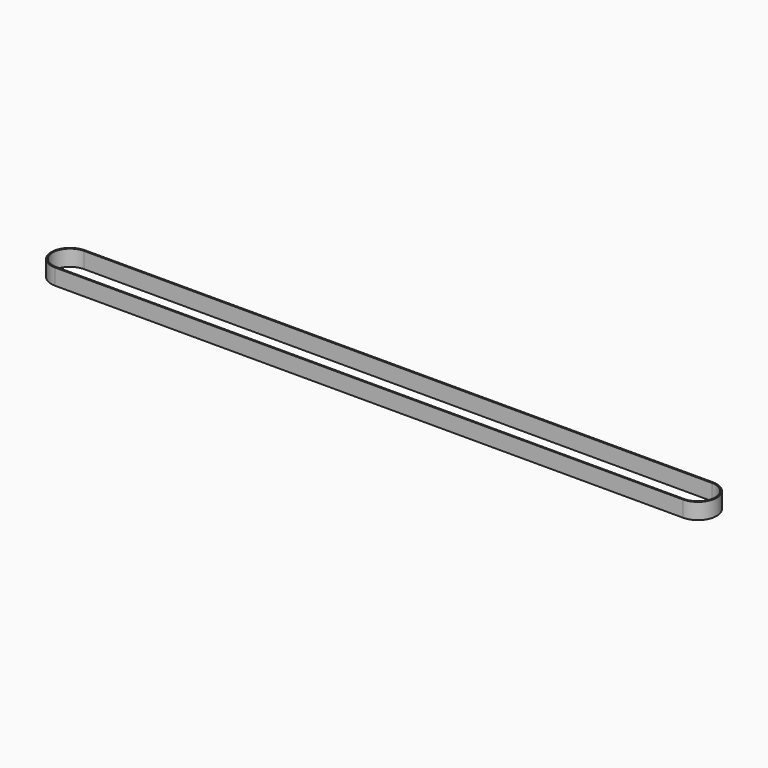
from build123d import *

# Parameters (mm, degrees)
PAD_DEPTH = 6


with BuildPart() as part:
    # Sketch → Pad (new body)
    with BuildSketch(Plane.XY):
        with BuildLine():
            ThreePointArc((-1e-06, 7), (-7, 0), (0, -7))
            Line((0, -7), (235, -7))
            ThreePointArc((235, -7), (242, 0), (235, 7))
            Line((235, 7), (-1e-06, 7))
        make_face()
        with BuildLine():
            ThreePointArc((0.001268, 6.5), (-6.5, 0.000635), (-2e-06, -6.5))
            Line((235, -6.526594), (-2e-06, -6.5))
            ThreePointArc((235, -6.526594), (241.5, -0.026594), (235, 6.473406))
            Line((0.001268, 6.5), (235, 6.473406))
        make_face(mode=Mode.SUBTRACT)
    extrude(amount=PAD_DEPTH)


solid = part.part
